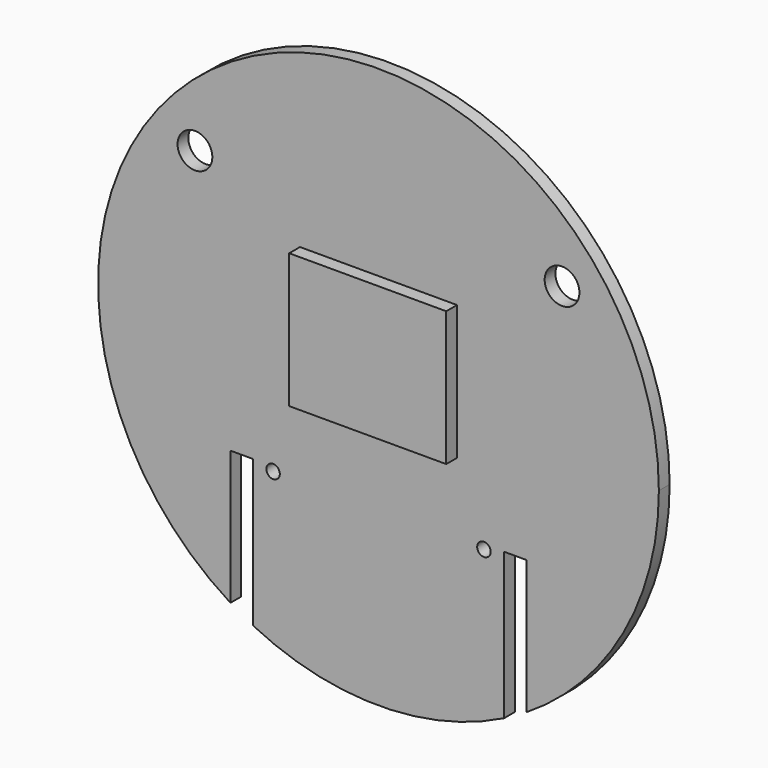
from build123d import *

# Parameters (mm, degrees)
F0_R     = 1.5
F0_R_2   = 3.875
F0_W     = 35
F0_H     = 30
F1_DEPTH = 3
F2_DEPTH = 6


with BuildPart() as f1:
    # F0 (on Front) → F1 (new body)
    with BuildSketch(Plane.XZ):
        with BuildLine():
            ThreePointArc((33, -53.077773), (54.629433, -30.362395), (62.5, 0))
            ThreePointArc((62.5, 0), (-30.362395, 54.629433), (-33, -53.077773))
            Line((-33, -53.077773), (-33, -23.207187))
            Line((-33, -23.207187), (-28, -23.207187))
            Line((-28, -23.207187), (-28, -55.877097))
            ThreePointArc((-28, -55.877097), (0, -62.5), (28, -55.877097))
            Line((28, -55.877097), (28, -23.207187))
            Line((28, -23.207187), (33, -23.207187))
            Line((33, -23.207187), (33, -53.077773))
        make_face()
        with Locations((-23.5, -24.207187)):
            Circle(F0_R, mode=Mode.SUBTRACT)
        with Locations((23.5, -24.207187)):
            Circle(F0_R, mode=Mode.SUBTRACT)
        with Locations((-40.913567, 33.097895)):
            Circle(F0_R_2, mode=Mode.SUBTRACT)
        with Locations((0, 6.792813)):
            Rectangle(F0_W, F0_H, mode=Mode.SUBTRACT)
        with Locations((40.913567, 33.097895)):
            Circle(F0_R_2, mode=Mode.SUBTRACT)
        with Locations((0, 6.792813)):
            Rectangle(F0_W, F0_H)
    extrude(amount=F1_DEPTH)

    # F0 (on Front) → F2 (join)
    with BuildSketch(Plane.XZ):
        with Locations((0, 6.792813)):
            Rectangle(F0_W, F0_H)
    extrude(amount=F2_DEPTH)


solid = f1.part
